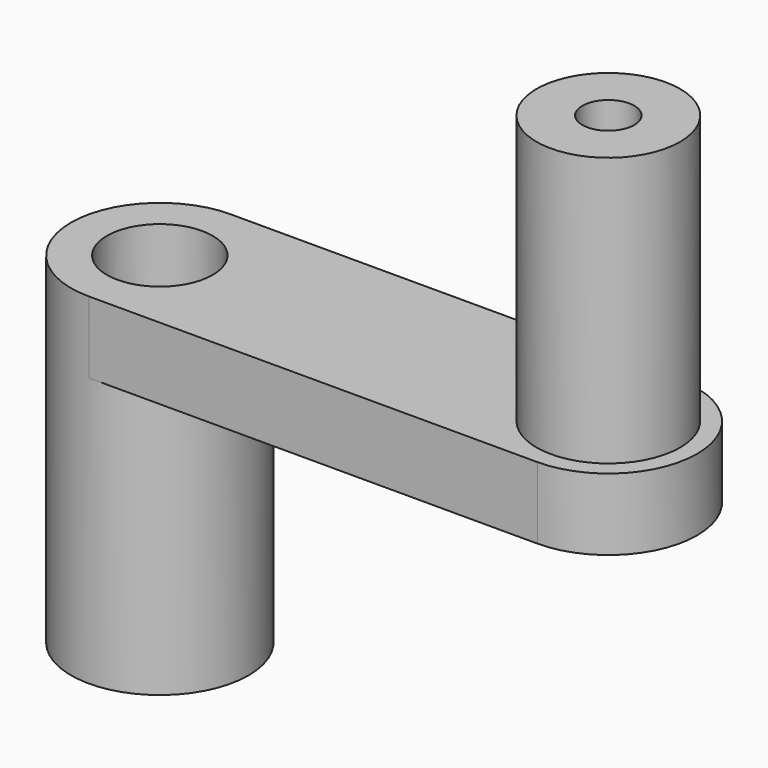
from build123d import *

# Parameters (mm, degrees)
SKETCH005_R        = 2.95
PAD005_DEPTH       = 4
SKETCH007_R        = 4
SKETCH007_R_2      = 1.45
PAD006_DEPTH       = 19
SKETCH016_R        = 4.95
SKETCH016_R_2      = 2.95
PAD015_DEPTH       = 15
SKETCH008_W        = 0.1
SKETCH008_H        = 15
REVOLUTION_ANGLE   = -10
POLARPATTERN_COUNT = 12


with BuildPart() as part:
    # Sketch005 → Pad005 (new body)
    with BuildSketch(Plane.XY.offset(15)):
        with BuildLine():
            ThreePointArc((0, 4.95), (-4.95, 0), (0, -4.95))
            Line((0, -4.95), (25, -4.95))
            ThreePointArc((25, -4.95), (29.95, 0), (25, 4.95))
            Line((25, 4.95), (0, 4.95))
        make_face()
        Circle(SKETCH005_R, mode=Mode.SUBTRACT)
    extrude(amount=PAD005_DEPTH)

    # Sketch007 → Pad006 (join)
    with BuildSketch(Plane.XY.offset(15)):
        with Locations((25, 0)):
            Circle(SKETCH007_R)
        with Locations((25, 0)):
            Circle(SKETCH007_R_2, mode=Mode.SUBTRACT)
    extrude(amount=PAD006_DEPTH)

    # Sketch016 → Pad015 (join)
    with BuildSketch(Plane.XY):
        Circle(SKETCH016_R)
        Circle(SKETCH016_R_2, mode=Mode.SUBTRACT)
    extrude(amount=PAD015_DEPTH)

    # Sketch008 → Revolution (revolve)
    with BuildSketch(Plane.XZ):
        with Locations((2.9, 7.5)):
            Rectangle(SKETCH008_W, SKETCH008_H)
    revolution = revolve(axis=Axis((0, 0, 0), (0, 0, 1)), revolution_arc=REVOLUTION_ANGLE)

    # PolarPattern: Revolution ×12 about axis
    polarpattern_axis = Axis((0, 0, 0), (0, 0, 1))
    for i in range(1, POLARPATTERN_COUNT):
        add(revolution.rotate(polarpattern_axis, i * 360 / POLARPATTERN_COUNT))


solid = part.part
